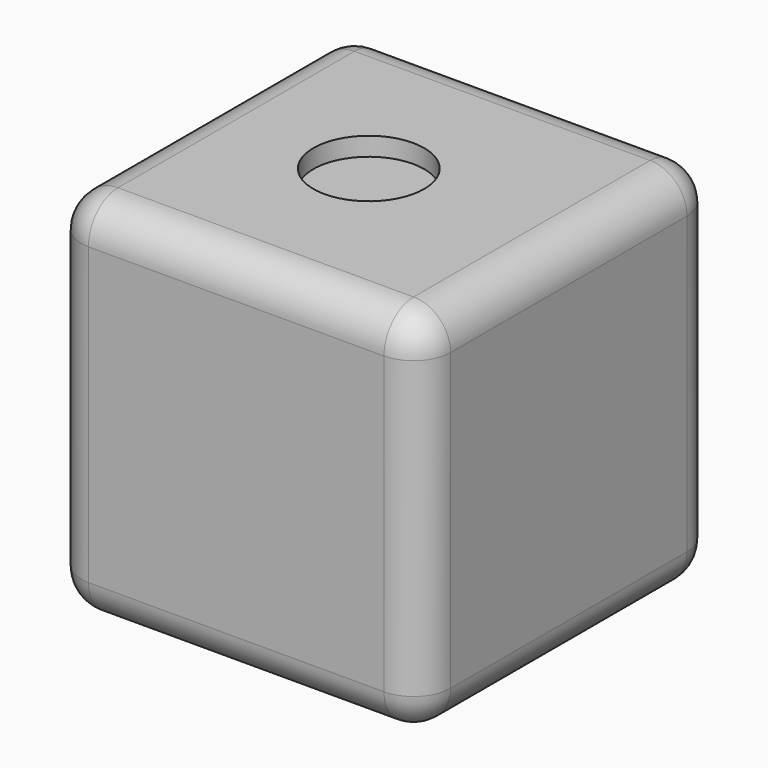
from build123d import *

# Parameters (mm, degrees)
F0_W     = 100
F0_H     = 100
F1_DEPTH = 100
F2_R     = 10
F3_R     = 15
F4_DEPTH = 5


with BuildPart() as f1:
    # F0 (on Top) → F1 (new body)
    with BuildSketch(Plane.XY):
        with Locations((4.118751, 0)):
            Rectangle(F0_W, F0_H)
    extrude(amount=F1_DEPTH)

    # F2
    f2_edges = [f1.edges().sort_by_distance(p)[0] for p in [
        (4.118751, 50, 100),
        (-45.881249, 0, 100),
        (4.118751, -50, 100),
        (54.118751, 0, 100),
        (-45.881249, -50, 50),
        (54.118751, -50, 50),
        (4.118751, -50, 0),
        (54.118751, 50, 50),
        (54.118751, 0, 0),
        (-45.881249, 50, 50),
        (4.118751, 50, 0),
        (-45.881249, 0, 0),
    ]]
    fillet(f2_edges, radius=F2_R)

    # F3 (on face) → F4 (cut)
    with BuildSketch(Plane.XY.offset(100)):
        Circle(F3_R)
    extrude(amount=-F4_DEPTH, mode=Mode.SUBTRACT)


solid = f1.part
